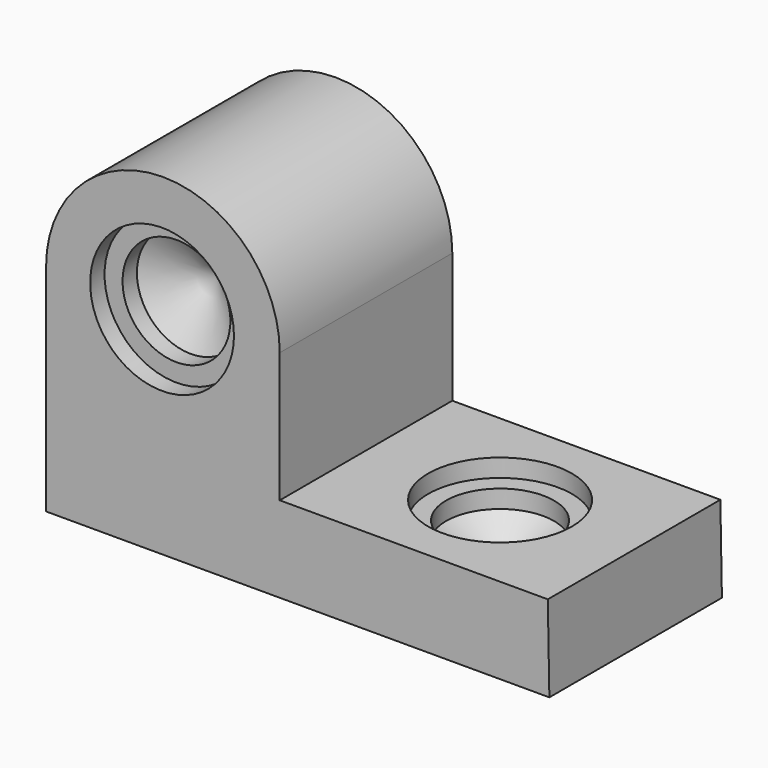
from build123d import *

# Parameters (mm, degrees)
F0_R           = 19.05
F1_DEPTH       = 76.2
F3_D           = 38.1
F3_DEPTH       = 12.7
F3_CBORE_D     = 50.8
F3_CBORE_DEPTH = 6.35
F3_TIP         = 11.4463947925
F5_D           = 38.1
F5_DEPTH       = 12.7
F5_CBORE_D     = 50.8
F5_CBORE_DEPTH = 6.35
F5_TIP         = 11.4463947925


with BuildPart() as f1:
    # F0 (on Front) → F1 (new body)
    with BuildSketch(Plane.XZ):
        with BuildLine():
            ThreePointArc((-40.9769218572, 0), (0.2980781428, -41.275), (41.5730781428, 0))
            ThreePointArc((41.5730781428, 0), (0.2980781428, 41.275), (-40.9769218572, 0))
        make_face()
        with Locations((0.2980781428, 0)):
            Circle(F0_R, mode=Mode.SUBTRACT)
        with BuildLine():
            Line((41.5730781428, -45.8812290595), (41.5730781428, 0))
            ThreePointArc((41.5730781428, 0), (0.2980781428, -41.275), (-40.9769218572, 0))
            Line((-40.9769218572, 0), (-40.9769218572, -76.2))
            Line((-40.9769218572, -76.2), (136.8230781428, -76.2))
            Line((136.8230781428, -76.2), (136.2701599936, -45.8812290595))
            Line((136.2701599936, -45.8812290595), (41.5730781428, -45.8812290595))
        make_face()
        with Locations((0.2980781428, 0)):
            Circle(F0_R)
    extrude(amount=F1_DEPTH)

    # F3
    with Locations(Plane.XZ.offset(76.2)):
        with Locations((0, 0)):
            CounterBoreHole(F3_D / 2, F3_CBORE_D / 2, F3_CBORE_DEPTH, depth=F3_DEPTH)
            with Locations((0, 0, -(F3_DEPTH + F3_TIP / 2))):  # 118° drill point
                Cone(0, F3_D / 2, F3_TIP, mode=Mode.SUBTRACT)

    # F5
    with Locations(Plane.XY.offset(-45.8812290595)):
        with Locations((88.9216190682, -38.1)):
            CounterBoreHole(F5_D / 2, F5_CBORE_D / 2, F5_CBORE_DEPTH, depth=F5_DEPTH)
            with Locations((0, 0, -(F5_DEPTH + F5_TIP / 2))):  # 118° drill point
                Cone(0, F5_D / 2, F5_TIP, mode=Mode.SUBTRACT)


solid = f1.part
